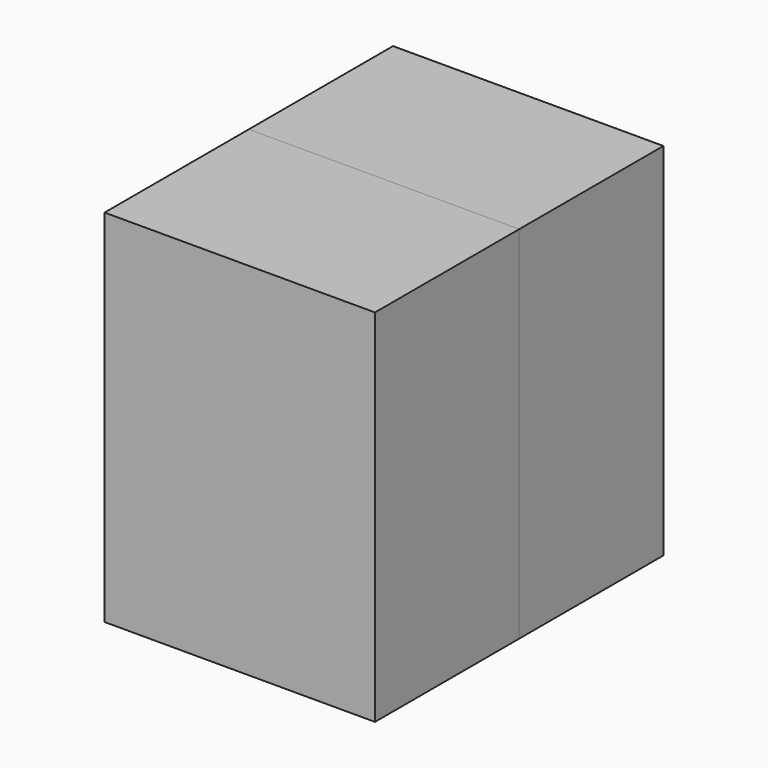
from build123d import *

# Parameters (mm, degrees)
BOX024_W     = 10
BOX024_H     = 10
BOX024_DEPTH = 10
BOX026_W     = 10
BOX026_H     = 10
BOX026_DEPTH = 10
BOX023_W     = 10
BOX023_H     = 10
BOX023_DEPTH = 10
BOX032_W     = 10
BOX032_H     = 10
BOX032_DEPTH = 10
BOX030_W     = 10
BOX030_H     = 10
BOX030_DEPTH = 10
BOX031_W     = 10
BOX031_H     = 10
BOX031_DEPTH = 10
BOX029_W     = 10
BOX029_H     = 10
BOX029_DEPTH = 10
BOX027_W     = 10
BOX027_H     = 10
BOX027_DEPTH = 10
BOX028_W     = 10
BOX028_H     = 10
BOX028_DEPTH = 10
BOX025_W     = 10
BOX025_H     = 10
BOX025_DEPTH = 10
BOX021_W     = 10
BOX021_H     = 10
BOX021_DEPTH = 10
BOX022_W     = 10
BOX022_H     = 10
BOX022_DEPTH = 10
BOX044_W     = 10
BOX044_H     = 10
BOX044_DEPTH = 10
BOX037_W     = 10
BOX037_H     = 10
BOX037_DEPTH = 10
BOX035_W     = 10
BOX035_H     = 10
BOX035_DEPTH = 10
BOX039_W     = 10
BOX039_H     = 10
BOX039_DEPTH = 10
BOX042_W     = 10
BOX042_H     = 10
BOX042_DEPTH = 10
BOX036_W     = 10
BOX036_H     = 10
BOX036_DEPTH = 10
BOX034_W     = 10
BOX034_H     = 10
BOX034_DEPTH = 10
BOX033_W     = 10
BOX033_H     = 10
BOX033_DEPTH = 10
BOX040_W     = 10
BOX040_H     = 10
BOX040_DEPTH = 10
BOX041_W     = 10
BOX041_H     = 10
BOX041_DEPTH = 10
BOX043_W     = 10
BOX043_H     = 10
BOX043_DEPTH = 10
BOX038_W     = 10
BOX038_H     = 10
BOX038_DEPTH = 10
BOX048_W     = 10
BOX048_H     = 10
BOX048_DEPTH = 10
BOX050_W     = 10
BOX050_H     = 10
BOX050_DEPTH = 10
BOX047_W     = 10
BOX047_H     = 10
BOX047_DEPTH = 10
BOX056_W     = 10
BOX056_H     = 10
BOX056_DEPTH = 10
BOX054_W     = 10
BOX054_H     = 10
BOX054_DEPTH = 10
BOX055_W     = 10
BOX055_H     = 10
BOX055_DEPTH = 10
BOX053_W     = 10
BOX053_H     = 10
BOX053_DEPTH = 10
BOX051_W     = 10
BOX051_H     = 10
BOX051_DEPTH = 10
BOX052_W     = 10
BOX052_H     = 10
BOX052_DEPTH = 10
BOX049_W     = 10
BOX049_H     = 10
BOX049_DEPTH = 10
BOX045_W     = 10
BOX045_H     = 10
BOX045_DEPTH = 10
BOX046_W     = 10
BOX046_H     = 10
BOX046_DEPTH = 10
BOX068_W     = 10
BOX068_H     = 10
BOX068_DEPTH = 10
BOX061_W     = 10
BOX061_H     = 10
BOX061_DEPTH = 10
BOX059_W     = 10
BOX059_H     = 10
BOX059_DEPTH = 10
BOX063_W     = 10
BOX063_H     = 10
BOX063_DEPTH = 10
BOX066_W     = 10
BOX066_H     = 10
BOX066_DEPTH = 10
BOX060_W     = 10
BOX060_H     = 10
BOX060_DEPTH = 10
BOX058_W     = 10
BOX058_H     = 10
BOX058_DEPTH = 10
BOX057_W     = 10
BOX057_H     = 10
BOX057_DEPTH = 10
BOX064_W     = 10
BOX064_H     = 10
BOX064_DEPTH = 10
BOX065_W     = 10
BOX065_H     = 10
BOX065_DEPTH = 10
BOX067_W     = 10
BOX067_H     = 10
BOX067_DEPTH = 10
BOX062_W     = 10
BOX062_H     = 10
BOX062_DEPTH = 10


with BuildPart() as cube024:
    # Box024 → Box024 (new body)
    with BuildSketch(Plane(origin=(24, 0, 30), x_dir=(1, 0, 0), z_dir=(0, 0, 1))):
        with Locations((5, 5)):
            Rectangle(BOX024_W, BOX024_H)
    extrude(amount=BOX024_DEPTH)


with BuildPart() as cube026:
    # Box026 → Box026 (new body)
    with BuildSketch(Plane(origin=(34, 0, 30), x_dir=(1, 0, 0), z_dir=(0, 0, 1))):
        with Locations((5, 5)):
            Rectangle(BOX026_W, BOX026_H)
    extrude(amount=BOX026_DEPTH)


with BuildPart() as fusion011:
    # Box023 → Box023 (new body)
    with BuildSketch(Plane(origin=(14, 0, 30), x_dir=(1, 0, 0), z_dir=(0, 0, 1))):
        with Locations((5, 5)):
            Rectangle(BOX023_W, BOX023_H)
    extrude(amount=BOX023_DEPTH)

    # Fusion011: union Cube024, Cube026
    add(cube024.part)
    add(cube026.part)


with BuildPart() as fusion011_1:
    # Fusion011 placement: moved
    add(fusion011.part.moved(Location((0, 0, -10))))


with BuildPart() as cube032:
    # Box032 → Box032 (new body)
    with BuildSketch(Plane(origin=(24, 0, 30), x_dir=(1, 0, 0), z_dir=(0, 0, 1))):
        with Locations((5, 5)):
            Rectangle(BOX032_W, BOX032_H)
    extrude(amount=BOX032_DEPTH)


with BuildPart() as cube030:
    # Box030 → Box030 (new body)
    with BuildSketch(Plane(origin=(34, 0, 30), x_dir=(1, 0, 0), z_dir=(0, 0, 1))):
        with Locations((5, 5)):
            Rectangle(BOX030_W, BOX030_H)
    extrude(amount=BOX030_DEPTH)


with BuildPart() as fusion009:
    # Box031 → Box031 (new body)
    with BuildSketch(Plane(origin=(14, 0, 30), x_dir=(1, 0, 0), z_dir=(0, 0, 1))):
        with Locations((5, 5)):
            Rectangle(BOX031_W, BOX031_H)
    extrude(amount=BOX031_DEPTH)

    # Fusion009: union Cube032, Cube030
    add(cube032.part)
    add(cube030.part)


with BuildPart() as fusion009_1:
    # Fusion009 placement: moved
    add(fusion009.part.moved(Location((0, 0, -30))))


with BuildPart() as cube029:
    # Box029 → Box029 (new body)
    with BuildSketch(Plane(origin=(24, 0, 30), x_dir=(1, 0, 0), z_dir=(0, 0, 1))):
        with Locations((5, 5)):
            Rectangle(BOX029_W, BOX029_H)
    extrude(amount=BOX029_DEPTH)


with BuildPart() as cube027:
    # Box027 → Box027 (new body)
    with BuildSketch(Plane(origin=(34, 0, 30), x_dir=(1, 0, 0), z_dir=(0, 0, 1))):
        with Locations((5, 5)):
            Rectangle(BOX027_W, BOX027_H)
    extrude(amount=BOX027_DEPTH)


with BuildPart() as fusion008:
    # Box028 → Box028 (new body)
    with BuildSketch(Plane(origin=(14, 0, 30), x_dir=(1, 0, 0), z_dir=(0, 0, 1))):
        with Locations((5, 5)):
            Rectangle(BOX028_W, BOX028_H)
    extrude(amount=BOX028_DEPTH)

    # Fusion008: union Cube029, Cube027
    add(cube029.part)
    add(cube027.part)


with BuildPart() as fusion008_1:
    # Fusion008 placement: moved
    add(fusion008.part.moved(Location((0, 0, -20))))


with BuildPart() as cube025:
    # Box025 → Box025 (new body)
    with BuildSketch(Plane(origin=(24, 0, 30), x_dir=(1, 0, 0), z_dir=(0, 0, 1))):
        with Locations((5, 5)):
            Rectangle(BOX025_W, BOX025_H)
    extrude(amount=BOX025_DEPTH)


with BuildPart() as cube021:
    # Box021 → Box021 (new body)
    with BuildSketch(Plane(origin=(34, 0, 30), x_dir=(1, 0, 0), z_dir=(0, 0, 1))):
        with Locations((5, 5)):
            Rectangle(BOX021_W, BOX021_H)
    extrude(amount=BOX021_DEPTH)


with BuildPart() as mode013:
    # Box022 → Box022 (new body)
    with BuildSketch(Plane(origin=(14, 0, 30), x_dir=(1, 0, 0), z_dir=(0, 0, 1))):
        with Locations((5, 5)):
            Rectangle(BOX022_W, BOX022_H)
    extrude(amount=BOX022_DEPTH)

    # Fusion012: union Cube025, Cube021
    add(cube025.part)
    add(cube021.part)

    # Fusion010: union Fusion011, Fusion009, Fusion008
    add(fusion011_1.part)
    add(fusion009_1.part)
    add(fusion008_1.part)


with BuildPart() as mode013_1:
    # Fusion010 placement: moved
    add(mode013.part.moved(Location((0, -14, 0))))


with BuildPart() as cube044:
    # Box044 → Box044 (new body)
    with BuildSketch(Plane(origin=(24, 0, 30), x_dir=(1, 0, 0), z_dir=(0, 0, 1))):
        with Locations((5, 5)):
            Rectangle(BOX044_W, BOX044_H)
    extrude(amount=BOX044_DEPTH)


with BuildPart() as cube037:
    # Box037 → Box037 (new body)
    with BuildSketch(Plane(origin=(34, 0, 30), x_dir=(1, 0, 0), z_dir=(0, 0, 1))):
        with Locations((5, 5)):
            Rectangle(BOX037_W, BOX037_H)
    extrude(amount=BOX037_DEPTH)


with BuildPart() as fusion017:
    # Box035 → Box035 (new body)
    with BuildSketch(Plane(origin=(14, 0, 30), x_dir=(1, 0, 0), z_dir=(0, 0, 1))):
        with Locations((5, 5)):
            Rectangle(BOX035_W, BOX035_H)
    extrude(amount=BOX035_DEPTH)

    # Fusion017: union Cube044, Cube037
    add(cube044.part)
    add(cube037.part)


with BuildPart() as fusion017_1:
    # Fusion017 placement: moved
    add(fusion017.part.moved(Location((0, 0, -10))))


with BuildPart() as cube039:
    # Box039 → Box039 (new body)
    with BuildSketch(Plane(origin=(24, 0, 30), x_dir=(1, 0, 0), z_dir=(0, 0, 1))):
        with Locations((5, 5)):
            Rectangle(BOX039_W, BOX039_H)
    extrude(amount=BOX039_DEPTH)


with BuildPart() as cube042:
    # Box042 → Box042 (new body)
    with BuildSketch(Plane(origin=(34, 0, 30), x_dir=(1, 0, 0), z_dir=(0, 0, 1))):
        with Locations((5, 5)):
            Rectangle(BOX042_W, BOX042_H)
    extrude(amount=BOX042_DEPTH)


with BuildPart() as fusion013:
    # Box036 → Box036 (new body)
    with BuildSketch(Plane(origin=(14, 0, 30), x_dir=(1, 0, 0), z_dir=(0, 0, 1))):
        with Locations((5, 5)):
            Rectangle(BOX036_W, BOX036_H)
    extrude(amount=BOX036_DEPTH)

    # Fusion013: union Cube039, Cube042
    add(cube039.part)
    add(cube042.part)


with BuildPart() as fusion013_1:
    # Fusion013 placement: moved
    add(fusion013.part.moved(Location((0, 0, -30))))


with BuildPart() as cube034:
    # Box034 → Box034 (new body)
    with BuildSketch(Plane(origin=(24, 0, 30), x_dir=(1, 0, 0), z_dir=(0, 0, 1))):
        with Locations((5, 5)):
            Rectangle(BOX034_W, BOX034_H)
    extrude(amount=BOX034_DEPTH)


with BuildPart() as cube033:
    # Box033 → Box033 (new body)
    with BuildSketch(Plane(origin=(34, 0, 30), x_dir=(1, 0, 0), z_dir=(0, 0, 1))):
        with Locations((5, 5)):
            Rectangle(BOX033_W, BOX033_H)
    extrude(amount=BOX033_DEPTH)


with BuildPart() as fusion016:
    # Box040 → Box040 (new body)
    with BuildSketch(Plane(origin=(14, 0, 30), x_dir=(1, 0, 0), z_dir=(0, 0, 1))):
        with Locations((5, 5)):
            Rectangle(BOX040_W, BOX040_H)
    extrude(amount=BOX040_DEPTH)

    # Fusion016: union Cube034, Cube033
    add(cube034.part)
    add(cube033.part)


with BuildPart() as fusion016_1:
    # Fusion016 placement: moved
    add(fusion016.part.moved(Location((0, 0, -20))))


with BuildPart() as cube041:
    # Box041 → Box041 (new body)
    with BuildSketch(Plane(origin=(24, 0, 30), x_dir=(1, 0, 0), z_dir=(0, 0, 1))):
        with Locations((5, 5)):
            Rectangle(BOX041_W, BOX041_H)
    extrude(amount=BOX041_DEPTH)


with BuildPart() as cube043:
    # Box043 → Box043 (new body)
    with BuildSketch(Plane(origin=(34, 0, 30), x_dir=(1, 0, 0), z_dir=(0, 0, 1))):
        with Locations((5, 5)):
            Rectangle(BOX043_W, BOX043_H)
    extrude(amount=BOX043_DEPTH)


with BuildPart() as mode123:
    # Box038 → Box038 (new body)
    with BuildSketch(Plane(origin=(14, 0, 30), x_dir=(1, 0, 0), z_dir=(0, 0, 1))):
        with Locations((5, 5)):
            Rectangle(BOX038_W, BOX038_H)
    extrude(amount=BOX038_DEPTH)

    # Fusion015: union Cube041, Cube043
    add(cube041.part)
    add(cube043.part)

    # Fusion014: union Fusion017, Fusion013, Fusion016
    add(fusion017_1.part)
    add(fusion013_1.part)
    add(fusion016_1.part)


with BuildPart() as mode123_1:
    # Fusion014 placement: moved
    add(mode123.part.moved(Location((0, -24, 0))))

    # Fusion: union Mode013
    add(mode013_1.part)


with BuildPart() as cube048:
    # Box048 → Box048 (new body)
    with BuildSketch(Plane(origin=(24, 0, 30), x_dir=(1, 0, 0), z_dir=(0, 0, 1))):
        with Locations((5, 5)):
            Rectangle(BOX048_W, BOX048_H)
    extrude(amount=BOX048_DEPTH)


with BuildPart() as cube050:
    # Box050 → Box050 (new body)
    with BuildSketch(Plane(origin=(34, 0, 30), x_dir=(1, 0, 0), z_dir=(0, 0, 1))):
        with Locations((5, 5)):
            Rectangle(BOX050_W, BOX050_H)
    extrude(amount=BOX050_DEPTH)


with BuildPart() as fusion021:
    # Box047 → Box047 (new body)
    with BuildSketch(Plane(origin=(14, 0, 30), x_dir=(1, 0, 0), z_dir=(0, 0, 1))):
        with Locations((5, 5)):
            Rectangle(BOX047_W, BOX047_H)
    extrude(amount=BOX047_DEPTH)

    # Fusion021: union Cube048, Cube050
    add(cube048.part)
    add(cube050.part)


with BuildPart() as fusion021_1:
    # Fusion021 placement: moved
    add(fusion021.part.moved(Location((0, 0, -10))))


with BuildPart() as cube056:
    # Box056 → Box056 (new body)
    with BuildSketch(Plane(origin=(24, 0, 30), x_dir=(1, 0, 0), z_dir=(0, 0, 1))):
        with Locations((5, 5)):
            Rectangle(BOX056_W, BOX056_H)
    extrude(amount=BOX056_DEPTH)


with BuildPart() as cube054:
    # Box054 → Box054 (new body)
    with BuildSketch(Plane(origin=(34, 0, 30), x_dir=(1, 0, 0), z_dir=(0, 0, 1))):
        with Locations((5, 5)):
            Rectangle(BOX054_W, BOX054_H)
    extrude(amount=BOX054_DEPTH)


with BuildPart() as fusion019:
    # Box055 → Box055 (new body)
    with BuildSketch(Plane(origin=(14, 0, 30), x_dir=(1, 0, 0), z_dir=(0, 0, 1))):
        with Locations((5, 5)):
            Rectangle(BOX055_W, BOX055_H)
    extrude(amount=BOX055_DEPTH)

    # Fusion019: union Cube056, Cube054
    add(cube056.part)
    add(cube054.part)


with BuildPart() as fusion019_1:
    # Fusion019 placement: moved
    add(fusion019.part.moved(Location((0, 0, -30))))


with BuildPart() as cube053:
    # Box053 → Box053 (new body)
    with BuildSketch(Plane(origin=(24, 0, 30), x_dir=(1, 0, 0), z_dir=(0, 0, 1))):
        with Locations((5, 5)):
            Rectangle(BOX053_W, BOX053_H)
    extrude(amount=BOX053_DEPTH)


with BuildPart() as cube051:
    # Box051 → Box051 (new body)
    with BuildSketch(Plane(origin=(34, 0, 30), x_dir=(1, 0, 0), z_dir=(0, 0, 1))):
        with Locations((5, 5)):
            Rectangle(BOX051_W, BOX051_H)
    extrude(amount=BOX051_DEPTH)


with BuildPart() as fusion018:
    # Box052 → Box052 (new body)
    with BuildSketch(Plane(origin=(14, 0, 30), x_dir=(1, 0, 0), z_dir=(0, 0, 1))):
        with Locations((5, 5)):
            Rectangle(BOX052_W, BOX052_H)
    extrude(amount=BOX052_DEPTH)

    # Fusion018: union Cube053, Cube051
    add(cube053.part)
    add(cube051.part)


with BuildPart() as fusion018_1:
    # Fusion018 placement: moved
    add(fusion018.part.moved(Location((0, 0, -20))))


with BuildPart() as cube049:
    # Box049 → Box049 (new body)
    with BuildSketch(Plane(origin=(24, 0, 30), x_dir=(1, 0, 0), z_dir=(0, 0, 1))):
        with Locations((5, 5)):
            Rectangle(BOX049_W, BOX049_H)
    extrude(amount=BOX049_DEPTH)


with BuildPart() as cube045:
    # Box045 → Box045 (new body)
    with BuildSketch(Plane(origin=(34, 0, 30), x_dir=(1, 0, 0), z_dir=(0, 0, 1))):
        with Locations((5, 5)):
            Rectangle(BOX045_W, BOX045_H)
    extrude(amount=BOX045_DEPTH)


with BuildPart() as mode124:
    # Box046 → Box046 (new body)
    with BuildSketch(Plane(origin=(14, 0, 30), x_dir=(1, 0, 0), z_dir=(0, 0, 1))):
        with Locations((5, 5)):
            Rectangle(BOX046_W, BOX046_H)
    extrude(amount=BOX046_DEPTH)

    # Fusion022: union Cube049, Cube045
    add(cube049.part)
    add(cube045.part)

    # Fusion020: union Fusion021, Fusion019, Fusion018
    add(fusion021_1.part)
    add(fusion019_1.part)
    add(fusion018_1.part)


with BuildPart() as mode124_1:
    # Fusion020 placement: moved
    add(mode124.part.moved(Location((0, -14, 0))))


with BuildPart() as cube068:
    # Box068 → Box068 (new body)
    with BuildSketch(Plane(origin=(24, 0, 30), x_dir=(1, 0, 0), z_dir=(0, 0, 1))):
        with Locations((5, 5)):
            Rectangle(BOX068_W, BOX068_H)
    extrude(amount=BOX068_DEPTH)


with BuildPart() as cube061:
    # Box061 → Box061 (new body)
    with BuildSketch(Plane(origin=(34, 0, 30), x_dir=(1, 0, 0), z_dir=(0, 0, 1))):
        with Locations((5, 5)):
            Rectangle(BOX061_W, BOX061_H)
    extrude(amount=BOX061_DEPTH)


with BuildPart() as fusion027:
    # Box059 → Box059 (new body)
    with BuildSketch(Plane(origin=(14, 0, 30), x_dir=(1, 0, 0), z_dir=(0, 0, 1))):
        with Locations((5, 5)):
            Rectangle(BOX059_W, BOX059_H)
    extrude(amount=BOX059_DEPTH)

    # Fusion027: union Cube068, Cube061
    add(cube068.part)
    add(cube061.part)


with BuildPart() as fusion027_1:
    # Fusion027 placement: moved
    add(fusion027.part.moved(Location((0, 0, -10))))


with BuildPart() as cube063:
    # Box063 → Box063 (new body)
    with BuildSketch(Plane(origin=(24, 0, 30), x_dir=(1, 0, 0), z_dir=(0, 0, 1))):
        with Locations((5, 5)):
            Rectangle(BOX063_W, BOX063_H)
    extrude(amount=BOX063_DEPTH)


with BuildPart() as cube066:
    # Box066 → Box066 (new body)
    with BuildSketch(Plane(origin=(34, 0, 30), x_dir=(1, 0, 0), z_dir=(0, 0, 1))):
        with Locations((5, 5)):
            Rectangle(BOX066_W, BOX066_H)
    extrude(amount=BOX066_DEPTH)


with BuildPart() as fusion023:
    # Box060 → Box060 (new body)
    with BuildSketch(Plane(origin=(14, 0, 30), x_dir=(1, 0, 0), z_dir=(0, 0, 1))):
        with Locations((5, 5)):
            Rectangle(BOX060_W, BOX060_H)
    extrude(amount=BOX060_DEPTH)

    # Fusion023: union Cube063, Cube066
    add(cube063.part)
    add(cube066.part)


with BuildPart() as fusion023_1:
    # Fusion023 placement: moved
    add(fusion023.part.moved(Location((0, 0, -30))))


with BuildPart() as cube058:
    # Box058 → Box058 (new body)
    with BuildSketch(Plane(origin=(24, 0, 30), x_dir=(1, 0, 0), z_dir=(0, 0, 1))):
        with Locations((5, 5)):
            Rectangle(BOX058_W, BOX058_H)
    extrude(amount=BOX058_DEPTH)


with BuildPart() as cube057:
    # Box057 → Box057 (new body)
    with BuildSketch(Plane(origin=(34, 0, 30), x_dir=(1, 0, 0), z_dir=(0, 0, 1))):
        with Locations((5, 5)):
            Rectangle(BOX057_W, BOX057_H)
    extrude(amount=BOX057_DEPTH)


with BuildPart() as fusion026:
    # Box064 → Box064 (new body)
    with BuildSketch(Plane(origin=(14, 0, 30), x_dir=(1, 0, 0), z_dir=(0, 0, 1))):
        with Locations((5, 5)):
            Rectangle(BOX064_W, BOX064_H)
    extrude(amount=BOX064_DEPTH)

    # Fusion026: union Cube058, Cube057
    add(cube058.part)
    add(cube057.part)


with BuildPart() as fusion026_1:
    # Fusion026 placement: moved
    add(fusion026.part.moved(Location((0, 0, -20))))


with BuildPart() as cube065:
    # Box065 → Box065 (new body)
    with BuildSketch(Plane(origin=(24, 0, 30), x_dir=(1, 0, 0), z_dir=(0, 0, 1))):
        with Locations((5, 5)):
            Rectangle(BOX065_W, BOX065_H)
    extrude(amount=BOX065_DEPTH)


with BuildPart() as cube067:
    # Box067 → Box067 (new body)
    with BuildSketch(Plane(origin=(34, 0, 30), x_dir=(1, 0, 0), z_dir=(0, 0, 1))):
        with Locations((5, 5)):
            Rectangle(BOX067_W, BOX067_H)
    extrude(amount=BOX067_DEPTH)


with BuildPart() as mode126:
    # Box062 → Box062 (new body)
    with BuildSketch(Plane(origin=(14, 0, 30), x_dir=(1, 0, 0), z_dir=(0, 0, 1))):
        with Locations((5, 5)):
            Rectangle(BOX062_W, BOX062_H)
    extrude(amount=BOX062_DEPTH)

    # Fusion025: union Cube065, Cube067
    add(cube065.part)
    add(cube067.part)

    # Fusion024: union Fusion027, Fusion023, Fusion026
    add(fusion027_1.part)
    add(fusion023_1.part)
    add(fusion026_1.part)


with BuildPart() as mode126_1:
    # Fusion024 placement: moved
    add(mode126.part.moved(Location((0, -24, 0))))

    # Fusion028: union Mode124
    add(mode124_1.part)


with BuildPart() as mode126_2:
    # Fusion028 placement: moved
    add(mode126_1.part.moved(Location((0, -20, 0))))


solid = Compound([mode123_1.part, mode126_2.part])
